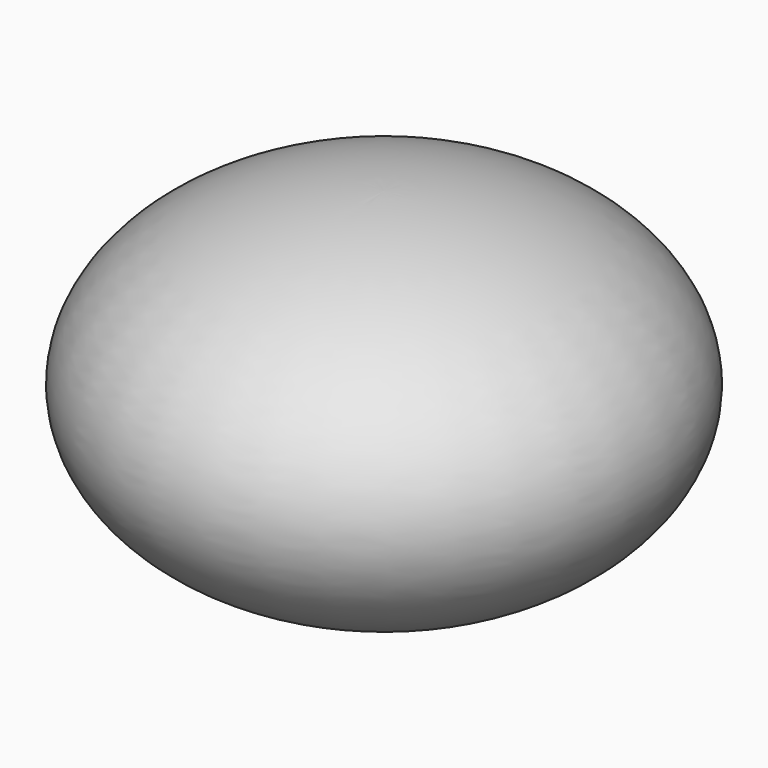
from build123d import *


with BuildPart() as f1:
    # F0 (on Right) → F1 (revolve)
    with BuildSketch(Plane.YZ):
        with BuildLine():
            Line((0, -225), (0, 225))
            add(Edge.make_bspline(
                [(0, 225), (-350, 225), (-350, 0), (-350, -225), (0, -225)],
                knots=[4.7123889804, 4.7123889804, 4.7123889804, 6.2831853072, 6.2831853072, 7.853981634, 7.853981634, 7.853981634], degree=2, weights=[1, 0.7071067812, 1, 0.7071067812, 1]))
        make_face()
    revolve(axis=Axis((0, 0, 0), (0, 0, -1)))


solid = f1.part
